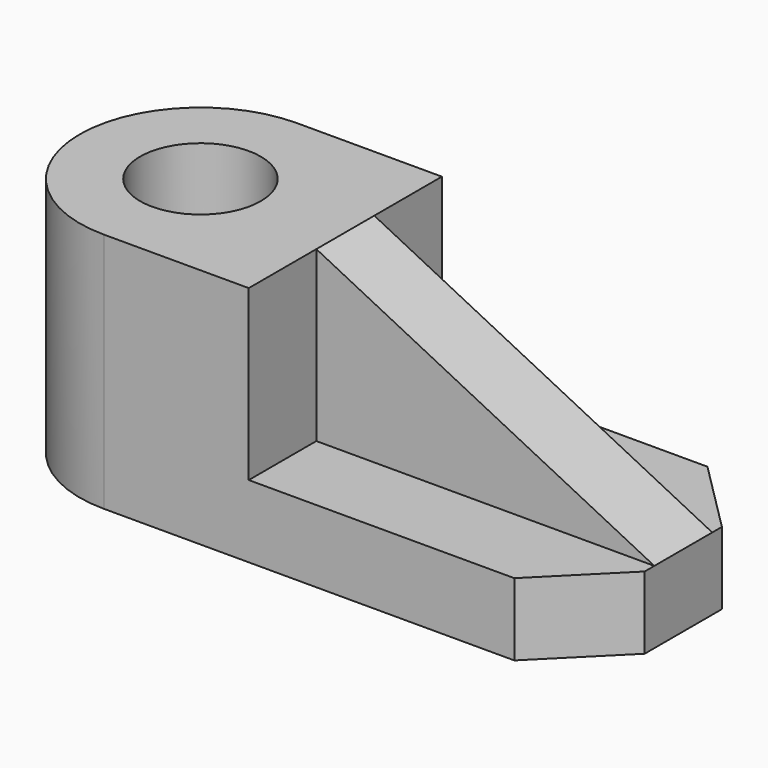
from build123d import *

# Parameters (mm, degrees)
PAD_DEPTH    = 30
PAD001_DEPTH = 9
PAD002_DEPTH = 4.5
SKETCH003_R  = 7.5
POCKET_DEPTH = 30.001


with BuildPart() as part:
    # Sketch → Pad (new body)
    with BuildSketch(Plane.XY):
        with BuildLine():
            Line((-3.1e-05, 15), (17.999969, 15))
            Line((17.999969, 15), (17.999969, -15))
            Line((17.999969, -15), (0, -15))
            ThreePointArc((-3.1e-05, 15), (-15, -1.5e-05), (0, -15))
        make_face()
    extrude(amount=PAD_DEPTH)

    # Sketch001 → Pad001 (join)
    with BuildSketch(Plane.XY):
        Polygon((17.999969, 15), (50.999969, 15), (59.999969, 6), (59.999969, -6), (50.999969, -15), (17.999969, -15), align=None)
    extrude(amount=PAD001_DEPTH)

    # Sketch002 → Pad002 (join, symmetric)
    with BuildSketch(Plane.XZ):
        Polygon((17.999969, 30), (17.999969, 9), (59.999969, 9), align=None)
    extrude(amount=PAD002_DEPTH, both=True)

    # Sketch003 (on Face7 of Pad002) → Pocket (cut, through all)
    with BuildSketch(Plane.XY.offset(30)):
        Circle(SKETCH003_R)
    extrude(amount=-POCKET_DEPTH, mode=Mode.SUBTRACT)


solid = part.part
